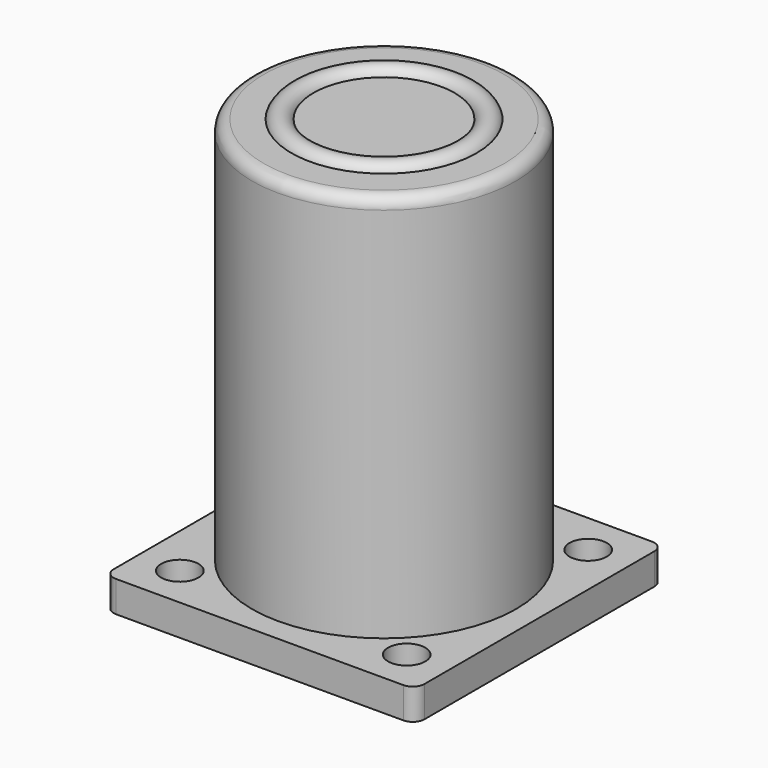
from build123d import *

# Parameters (mm, degrees)
TORUS_R           = 1.5
CYLINDER001_R     = 17
CYLINDER001_DEPTH = 50
FILLET001_R       = 1.5
CYLINDER_R        = 2.4
CYLINDER_DEPTH    = 10
ARRAY_X_COUNT     = 2
ARRAY_X_PITCH     = 29.2
ARRAY_Y_COUNT     = 2
ARRAY_Y_PITCH     = 29.2
BOX_W             = 40
BOX_H             = 40
BOX_DEPTH         = 4
FILLET_R          = 1.5


with BuildPart() as torus:
    # Torus → Torus (revolve)
    with BuildSketch(Plane(origin=(20, 20, 53.5), x_dir=(1, 0, 0), z_dir=(0, -1, 0))):
        with Locations((10.5, 0)):
            Circle(TORUS_R)
    revolve(axis=Axis((20, 20, 53.5), (0, 0, 1)))


with BuildPart() as obj1:
    # Cylinder001 → Cylinder001 (new body)
    with BuildSketch(Plane(origin=(20, 20, 4), x_dir=(1, 0, 0), z_dir=(0, 0, 1))):
        Circle(CYLINDER001_R)
    extrude(amount=CYLINDER001_DEPTH)

    # Fillet001
    fillet001_edges = [obj1.edges().sort_by_distance(p)[0] for p in [
        (3, 20, 54),
    ]]
    fillet(fillet001_edges, radius=FILLET001_R)


with BuildPart() as array:
    # Cylinder → Cylinder (new body)
    with BuildSketch(Plane(origin=(5.4, 5.4, -2), x_dir=(1, 0, 0), z_dir=(0, 0, 1))):
        Circle(CYLINDER_R)
    extrude(amount=CYLINDER_DEPTH)

    # Array X: Array ×2


with BuildPart() as array_1:
    add(array.part)
    with Locations(*[(i * ARRAY_X_PITCH, 0, 0) for i in range(1, ARRAY_X_COUNT)]):
        add(array.part)

    # Array Y: Array ×2


with BuildPart() as array_2:
    add(array_1.part)
    with Locations(*[(0, i * ARRAY_Y_PITCH, 0) for i in range(1, ARRAY_Y_COUNT)]):
        add(array_1.part)


with BuildPart() as fusion:
    # Box → Box (new body)
    with BuildSketch(Plane.XY):
        with Locations((20, 20)):
            Rectangle(BOX_W, BOX_H)
    extrude(amount=BOX_DEPTH)

    # Cut: cut Array
    add(array_2.part, mode=Mode.SUBTRACT)

    # Fillet
    fillet_edges = [fusion.edges().sort_by_distance(p)[0] for p in [
        (0, 0, 2),
        (0, 40, 2),
        (40, 0, 2),
        (40, 40, 2),
    ]]
    fillet(fillet_edges, radius=FILLET_R)

    # Fusion: union obj1
    add(obj1.part)


solid = Compound([torus.part, fusion.part])
